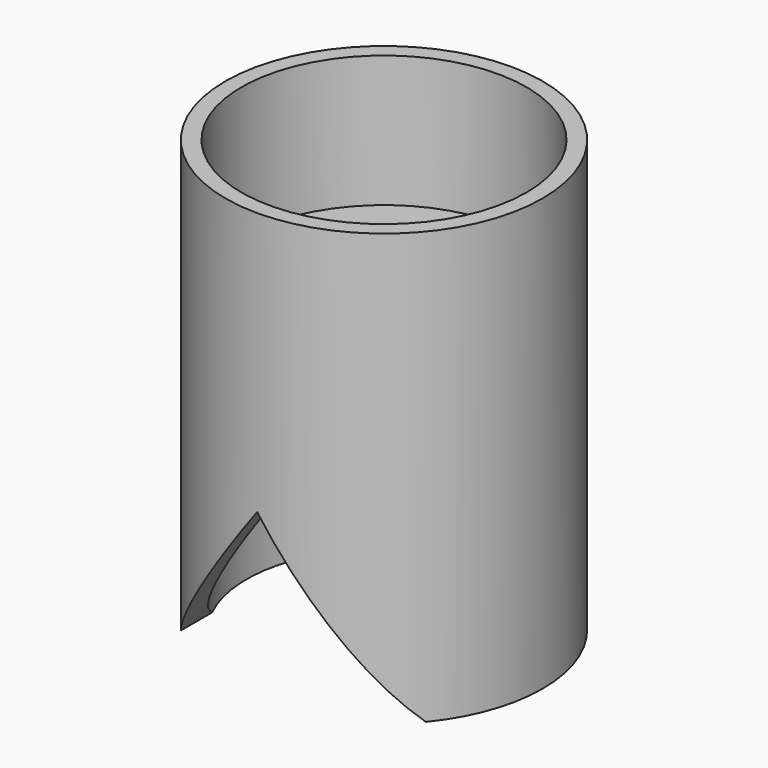
from build123d import *

# Parameters (mm, degrees)
F0_R          = 18.1930467882
F1_DEPTH      = 30
F2_R          = 15.7731461296
F3_DEPTH      = 25
F5_DEPTH      = 25
F5_DEPTH_BACK = 25
F6_W          = 50.437502563
F6_H          = 30.6197889149
F7_DEPTH      = 25
F7_DEPTH_BACK = 25
F8_DEPTH      = 25
F9_R          = 16.3489622069
F10_DEPTH     = 15.1


with BuildPart() as f1:
    # F0 (on Top) → F1 (new body)
    with BuildSketch(Plane.XY):
        Circle(F0_R)
    extrude(amount=F1_DEPTH)

    # F2 (on face) → F3 (cut)
    with BuildSketch(Plane(origin=(0, 0, 0), x_dir=(1, 0, 0), z_dir=(0, 0, -1))):
        Circle(F2_R)
    extrude(amount=-F3_DEPTH, mode=Mode.SUBTRACT)

    # F4 (on Front) → F5 (cut, two sides)
    with BuildSketch(Plane.XZ) as f5_sk:
        Polygon((0, 24.8274412006), (-18.1874278933, 0), (18.0421601981, 0), align=None)
    extrude(amount=-F5_DEPTH, mode=Mode.SUBTRACT)
    extrude(f5_sk.sketch, amount=F5_DEPTH_BACK, mode=Mode.SUBTRACT)

    # F6 (on Front) → F7 (cut, two sides)
    with BuildSketch(Plane.XZ) as f7_sk:
        with Locations((0, -9.8076611757)):
            Rectangle(F6_W, F6_H)
    extrude(amount=-F7_DEPTH, mode=Mode.SUBTRACT)
    extrude(f7_sk.sketch, amount=F7_DEPTH_BACK, mode=Mode.SUBTRACT)

    # F8 (add): a face of the model
    f8_faces = [f1.faces().sort_by_distance(p)[0] for p in [
        (0, 0, 30),
    ]]
    extrude(f8_faces, amount=F8_DEPTH)

    # F9 (on face) → F10 (cut)
    with BuildSketch(Plane.XY.offset(55)):
        Circle(F9_R)
    extrude(amount=-F10_DEPTH, mode=Mode.SUBTRACT)


solid = f1.part
